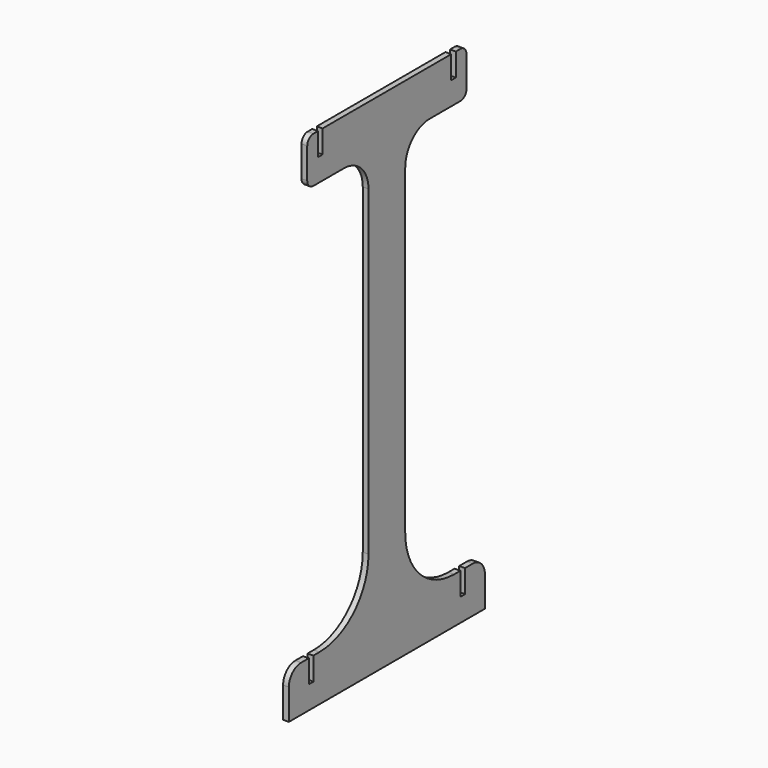
from build123d import *

# Parameters (mm, degrees)
F1_DEPTH = 4.7625


with BuildPart() as f1:
    # F0 (on Right) → F1 (new body)
    with BuildSketch(Plane.YZ):
        with BuildLine():
            Line((38.1, 0), (0, 0))
            Line((0, 0), (-47.625, 0))
            Line((-47.625, 0), (-47.625, -19.05))
            Line((-47.625, -19.05), (-52.3875, -19.05))
            Line((-52.3875, -19.05), (-52.3875, 0))
            Line((-52.3875, 0), (-57.15, 0))
            ThreePointArc((-57.15, 0), (-61.640128, -1.859872), (-63.5, -6.35))
            Line((-63.5, -6.35), (-63.5, -31.75))
            ThreePointArc((-63.5, -31.75), (-61.640128, -36.240128), (-57.15, -38.1))
            Line((-57.15, -38.1), (-25.4, -38.1))
            ThreePointArc((-25.4, -38.1), (-7.439488, -45.539488), (0, -63.5))
            Line((0, -63.5), (0, -330.2))
            ThreePointArc((0, -330.2), (-14.878976, -366.121024), (-50.8, -381))
            Line((-50.8, -381), (-57.15, -381))
            Line((-57.15, -381), (-57.15, -400.05))
            Line((-57.15, -400.05), (-61.9125, -400.05))
            Line((-61.9125, -400.05), (-61.9125, -381))
            Line((-61.9125, -381), (-69.85, -381))
            ThreePointArc((-69.85, -381), (-78.830256, -384.719744), (-82.55, -393.7))
            Line((-82.55, -393.7), (-82.55, -419.1))
            Line((-82.55, -419.1), (0, -419.1))
            Line((0, -419.1), (38.1, -419.1))
            Line((38.1, -419.1), (120.65, -419.1))
            Line((120.65, -419.1), (120.65, -393.7))
            ThreePointArc((120.65, -393.7), (116.930256, -384.719744), (107.95, -381))
            Line((107.95, -381), (100.0125, -381))
            Line((100.0125, -381), (100.0125, -400.05))
            Line((100.0125, -400.05), (95.25, -400.05))
            Line((95.25, -400.05), (95.25, -381))
            Line((95.25, -381), (88.9, -381))
            ThreePointArc((88.9, -381), (52.978976, -366.121024), (38.1, -330.2))
            Line((38.1, -330.2), (38.1, -63.5))
            ThreePointArc((38.1, -63.5), (45.539488, -45.539488), (63.5, -38.1))
            Line((63.5, -38.1), (95.25, -38.1))
            ThreePointArc((95.25, -38.1), (99.740128, -36.240128), (101.6, -31.75))
            Line((101.6, -31.75), (101.6, -6.35))
            ThreePointArc((101.6, -6.35), (99.740128, -1.859872), (95.25, 0))
            Line((95.25, 0), (90.4875, 0))
            Line((90.4875, 0), (90.4875, -19.05))
            Line((90.4875, -19.05), (85.725, -19.05))
            Line((85.725, -19.05), (85.725, 0))
            Line((85.725, 0), (38.1, 0))
        make_face()
    extrude(amount=F1_DEPTH)


solid = f1.part
